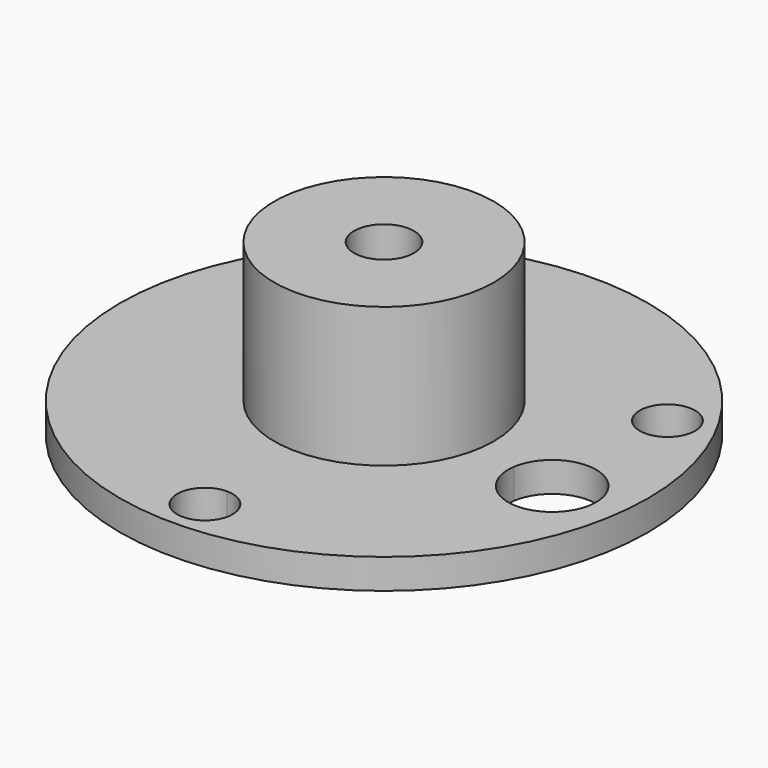
from build123d import *

# Parameters (mm, degrees)
F0_R     = 21
F2_DEPTH = 2.38125
F1_R     = 8.73125
F3_DEPTH = 13.49375
F4_R     = 2.38125
F5_DEPTH = 11.1125
F7_DEPTH = 2.38125
F8_DEPTH = 2.38125


with BuildPart() as f2:
    # F0 (on Top) → F2 (new body)
    with BuildSketch(Plane.XY):
        Circle(F0_R)
    extrude(amount=F2_DEPTH)

    # F1 (on face) → F3 (join)
    with BuildSketch(Plane.XY):
        Circle(F1_R)
    extrude(amount=F3_DEPTH)

    # F4 (on face) → F5 (cut)
    with BuildSketch(Plane.XY.offset(13.49375)):
        Circle(F4_R)
    extrude(amount=-F5_DEPTH, mode=Mode.SUBTRACT)

    # F6 (on face) → F7 (cut)
    with BuildSketch(Plane(origin=(0, 0, 0), x_dir=(1, 0, 0), z_dir=(0, 0, -1))):
        with BuildLine():
            ThreePointArc((0, 15.6), (1.555635, 16.244365), (2.2, 17.8))
            ThreePointArc((2.2, 17.8), (-1.555635, 19.355635), (0, 15.6))
        make_face()
    extrude(amount=-F7_DEPTH, mode=Mode.SUBTRACT)

    # F6 (on face) → F8 (cut)
    with BuildSketch(Plane(origin=(0, 0, 0), x_dir=(1, 0, 0), z_dir=(0, 0, -1))):
        with BuildLine():
            ThreePointArc((0, 15.6), (1.555635, 16.244365), (2.2, 17.8))
            ThreePointArc((2.2, 17.8), (-1.555635, 19.355635), (0, 15.6))
        make_face()
        with BuildLine():
            ThreePointArc((18.809169, 2.424734), (15.034562, 5.913945), (11.85226, 1.877214))
            ThreePointArc((11.85226, 1.877214), (15.583776, -1.064476), (18.809169, 2.424734))
        make_face()
        with BuildLine():
            ThreePointArc((17.615252, -8.9), (15.984654, -6.774963), (13.509996, -7.8))
            ThreePointArc((13.509996, -7.8), (14.84585, -11.025037), (17.615252, -8.9))
        make_face()
        with BuildLine():
            ThreePointArc((-13.215252, -8.9), (-13.290215, -8.330598), (-13.509996, -7.8))
            ThreePointArc((-13.509996, -7.8), (-17.540289, -9.469402), (-13.215252, -8.9))
        make_face()
    extrude(amount=-F8_DEPTH, mode=Mode.SUBTRACT)


solid = f2.part
